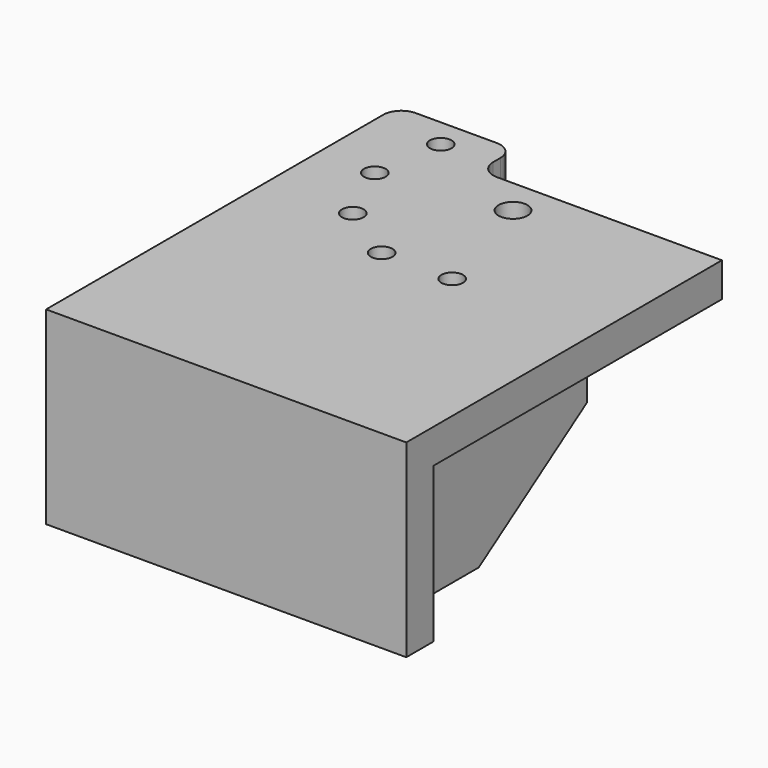
from build123d import *

# Parameters (mm, degrees)
F0_W      = 200
F0_H      = 200
F1_DEPTH  = 19.05
F3_D      = 16
F4_W      = 12
F4_H      = 125
F5_DEPTH  = 75
F6_SIZE2  = 75
F6_SIZE   = 50
F9_DEPTH  = 19.05
F11_DEPTH = 500
F12_W     = 50
F12_H     = 5
F13_DEPTH = 90
F14_W     = 5
F14_H     = 80
F15_DEPTH = 70
F16_SIZE2 = 40
F16_SIZE  = 60
F18_DEPTH = 25
F19_W     = 65
F19_H     = 19.05
F20_DEPTH = 25
F21_R     = 10
F22_R     = 6
F23_DEPTH = 25


with BuildPart() as f1:
    # F0 (on Top) → F1 (new body)
    with BuildSketch(Plane.XY):
        Rectangle(F0_W, F0_H)
    extrude(amount=F1_DEPTH)

    # F3 (through all)
    with Locations(Plane.XY.offset(19.05)):
        with Locations((0, 80)):
            Hole(F3_D / 2)

    # F4 (on face) → F5 (join)
    with BuildSketch(Plane(origin=(0, 0, 0), x_dir=(1, 0, 0), z_dir=(0, 0, -1))):
        with Locations((79, 37.5)):
            Rectangle(F4_W, F4_H)
    extrude(amount=F5_DEPTH)

    # F6
    f6_edges = [f1.edges().sort_by_distance(p)[0] for p in [
        (79, 25, -75),
    ]]
    f6_side = f1.faces().sort_by_distance((79, 25, -37.5))[0]
    chamfer(f6_edges, length=F6_SIZE, length2=F6_SIZE2, reference=f6_side)

    # F7: F1 across plane


with BuildPart() as f1_1:
    add(f1.part)
    add(f1.part.mirror(Plane.YZ))

    # F8 (on face) → F9 (join)
    with BuildSketch(Plane.XZ.offset(100)):
        Polygon((100, -85.95), (100, 0), (85, 0), (85, -75), (73, -75), (73, 0), (-73, 0), (-73, -75), (-85, -75), (-85, 0), (-100, 0), (-100, -85.95), align=None)
        Polygon((100, 0), (100, 19.05), (-100, 19.05), (-100, 0), (-85, 0), (-85, -75), (-73, -75), (-73, 0), (73, 0), (73, -75), (85, -75), (85, 0), align=None)
        Polygon((100, 0), (100, 19.05), (-100, 19.05), (-100, 0), (-85, 0), (-85, -75), (-73, -75), (-73, 0), (73, 0), (73, -75), (85, -75), (85, 0), align=None)
    extrude(amount=F9_DEPTH)

    # F10 (on face) → F11 (cut)
    with BuildSketch(Plane.YZ.offset(85)):
        Polygon((-100, 0), (-100, -21.6502193362), (-68.8245669007, 0), align=None)
    extrude(amount=-F11_DEPTH, mode=Mode.SUBTRACT)

    # F12 (on face) → F13 (join)
    with BuildSketch(Plane(origin=(0, 0, 0), x_dir=(1, 0, 0), z_dir=(0, 0, -1))):
        with Locations((0, -62.5)):
            Rectangle(F12_W, F12_H)
    extrude(amount=F13_DEPTH)

    # F14 (on face) → F15 (join)
    with BuildSketch(Plane(origin=(0, 0, 0), x_dir=(1, 0, 0), z_dir=(0, 0, -1))):
        with Locations((0, -20)):
            Rectangle(F14_W, F14_H)
    extrude(amount=F15_DEPTH)

    # F16
    f16_edges = [f1_1.edges().sort_by_distance(p)[0] for p in [
        (0, -20, -70),
    ]]
    f16_side = f1_1.faces().sort_by_distance((0, 20, -70))[0]
    chamfer(f16_edges, length=F16_SIZE, length2=F16_SIZE2, reference=f16_side)

    # F17 (on face) → F18 (cut)
    with BuildSketch(Plane.YZ.offset(2.5)):
        Polygon((60, 0), (49.0511549105, 0), (60, -8.0538968956), align=None)
    extrude(amount=-F18_DEPTH, mode=Mode.SUBTRACT)

    # F19 (on face) → F20 (join)
    with BuildSketch(Plane(origin=(0, 100, 0), x_dir=(-1, 0, 0), z_dir=(0, 1, 0))):
        with Locations((67.5, 9.525)):
            Rectangle(F19_W, F19_H)
    extrude(amount=F20_DEPTH)

    # F21
    f21_edges = [f1_1.edges().sort_by_distance(p)[0] for p in [
        (-100, 125, 9.525),
        (-35, 125, 9.525),
        (-35, 100, 9.525),
    ]]
    fillet(f21_edges, radius=F21_R)

    # F22 (on face) → F23 (cut)
    with BuildSketch(Plane.XY.offset(19.05)):
        with Locations((-63.2194236771, 108.8713434036)):
            Circle(F22_R)
        with Locations((-68.7925902107, 70.10911874)):
            Circle(F22_R)
        with Locations((-52.5245954176, 34.4871789908)):
            Circle(F22_R)
        with Locations((-19.5804127005, 13.3152383338)):
            Circle(F22_R)
        with Locations((19.5804127005, 13.3152383338)):
            Circle(F22_R)
    extrude(amount=-F23_DEPTH, mode=Mode.SUBTRACT)


solid = f1_1.part
